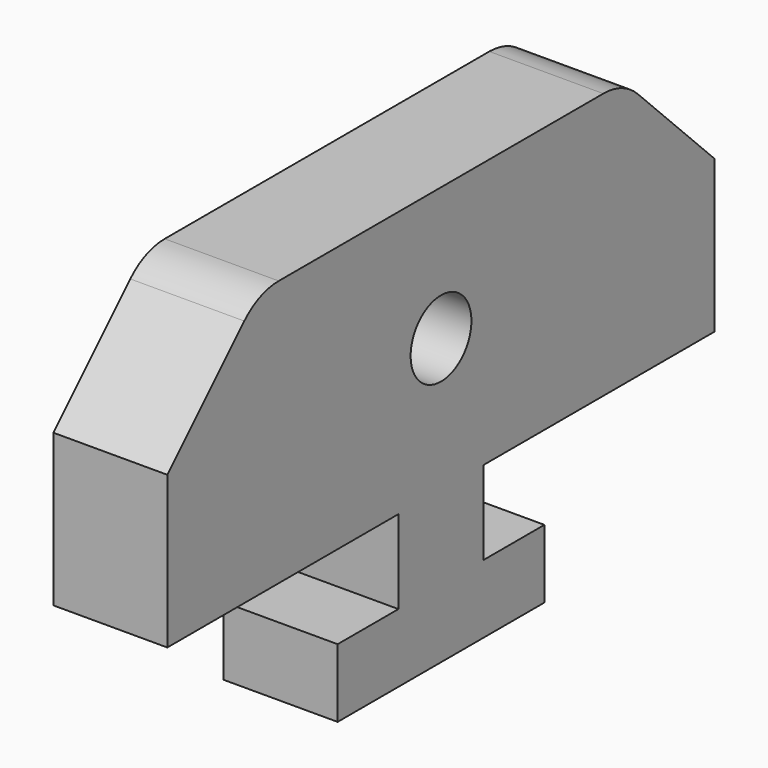
from build123d import *

# Parameters (mm, degrees)
F1_DEPTH = 15
F3_D     = 10
F3_DEPTH = 10
F3_TIP   = 3.0043030951


with BuildPart() as f1:
    # F0 (on Right) → F1 (new body)
    with BuildSketch(Plane.YZ):
        Polygon((-7, 9), (-17, 9), (-17, 0), (17, 0), (17, 9), (7, 9), (7, 20), (-7, 20), align=None)
        with BuildLine():
            Line((-45, 20), (-7, 20))
            Line((-7, 20), (7, 20))
            Line((7, 20), (45, 20))
            Line((45, 20), (45, 40))
            Line((45, 40), (32.3431457505, 52.6568542495))
            ThreePointArc((32.3431457505, 52.6568542495), (29.7477589599, 54.3910362601), (26.686291501, 55))
            Line((26.686291501, 55), (-26.686291501, 55))
            ThreePointArc((-26.686291501, 55), (-29.7477589599, 54.3910362601), (-32.3431457505, 52.6568542495))
            Line((-32.3431457505, 52.6568542495), (-45, 40))
            Line((-45, 40), (-45, 20))
        make_face()
    extrude(amount=F1_DEPTH)

    # F3
    with Locations(Plane.YZ.offset(15)):
        with Locations((0, 37.5)):
            Hole(F3_D / 2, depth=F3_DEPTH)
            with Locations((0, 0, -(F3_DEPTH + F3_TIP / 2))):  # 118° drill point
                Cone(0, F3_D / 2, F3_TIP, mode=Mode.SUBTRACT)


solid = f1.part
